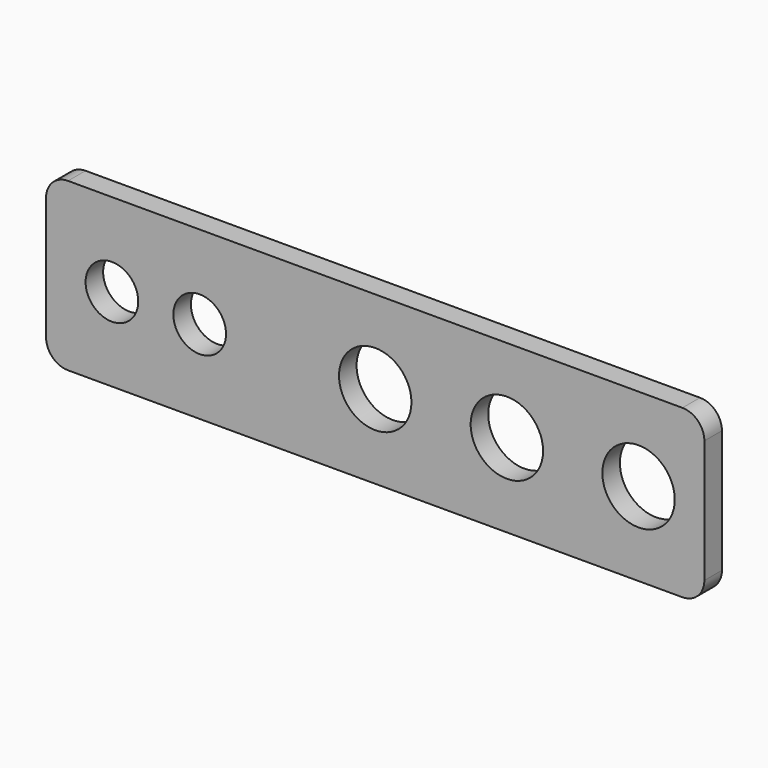
from build123d import *

# Parameters (mm, degrees)
F0_W     = 150
F0_H     = 38
F0_R     = 6
F0_R_2   = 8.25
F1_DEPTH = 5
F2_R     = 5


with BuildPart() as f1:
    # F0 (on Front) → F1 (new body)
    with BuildSketch(Plane.XZ):
        Rectangle(F0_W, F0_H)
        with Locations((-60, 0)):
            Circle(F0_R, mode=Mode.SUBTRACT)
        with Locations((-40, 0)):
            Circle(F0_R, mode=Mode.SUBTRACT)
        Circle(F0_R_2, mode=Mode.SUBTRACT)
        with Locations((30, 0)):
            Circle(F0_R_2, mode=Mode.SUBTRACT)
        with Locations((60, 0)):
            Circle(F0_R_2, mode=Mode.SUBTRACT)
    extrude(amount=F1_DEPTH)

    # F2
    f2_edges = [f1.edges().sort_by_distance(p)[0] for p in [
        (-75, -2.5, 19),
        (-75, -2.5, -19),
        (75, -2.5, 19),
        (75, -2.5, -19),
    ]]
    fillet(f2_edges, radius=F2_R)


solid = f1.part
